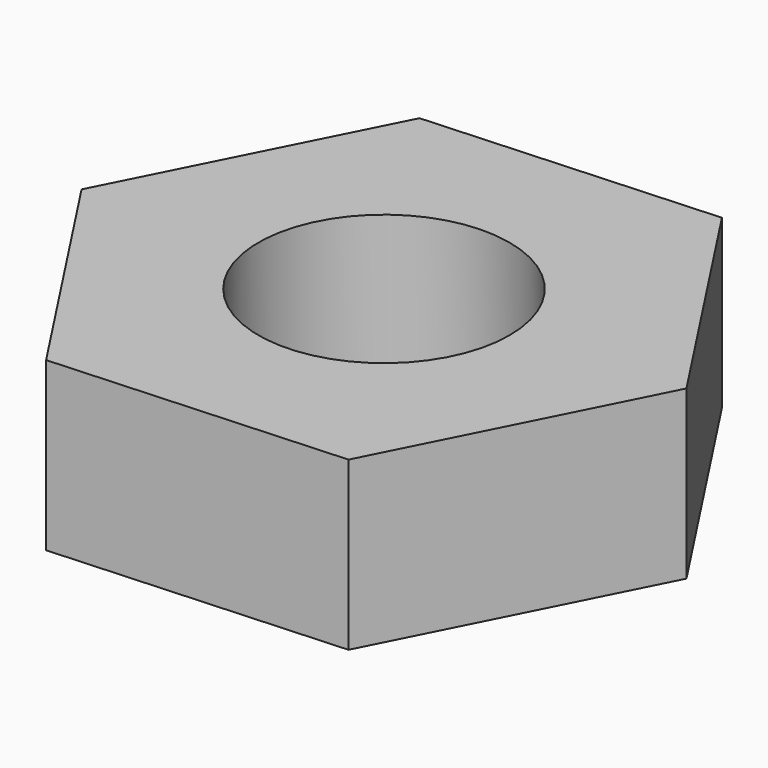
from build123d import *

# Parameters (mm, degrees)
F1_DEPTH = 3.175
F2_R     = 2.38125
F3_DEPTH = 3.176


with BuildPart() as f1:
    # F0 (on Top) → F1 (new body)
    with BuildSketch(Plane.XY):
        Polygon((5.490801, 0.304919), (2.481333, 4.907633), (-3.009468, 4.602714), (-5.490801, -0.304919), (-2.481333, -4.907633), (3.009468, -4.602714), align=None)
    extrude(amount=F1_DEPTH)

    # F2 (on face) → F3 (cut, through all)
    with BuildSketch(Plane.XY.offset(3.175)):
        Circle(F2_R)
    extrude(amount=-F3_DEPTH, mode=Mode.SUBTRACT)


solid = f1.part
